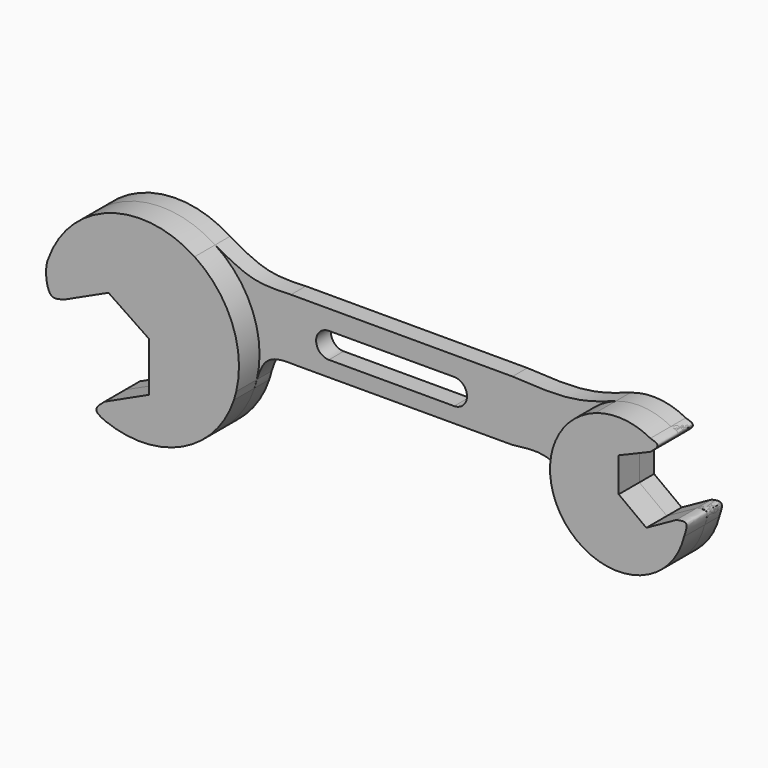
from build123d import *

# Parameters (mm, degrees)
F1_DEPTH = 9.00061
F2_DEPTH = 3.76264


with BuildPart() as f1:
    # F0 (on Front) → F1 (new body)
    with BuildSketch(Plane.XZ):
        with BuildLine():
            Line((-40.7024563674, 14.972725965), (-32.4174099998, 9.3729039422))
            Line((-32.4174099998, 9.3729039422), (-32.4174099998, -0.6270960578))
            Line((-32.4174099998, -0.6270960578), (-41.4970039682, -4.8176775649))
            add(Edge.make_bspline(
                [(-41.4970039682, -4.8176775649), (-42.3691302595, -5.5398068022), (-44.0306487903, -6.9155606595), (-42.3130432889, -7.7816184293), (-41.4970039682, -8.1930849701)],
                knots=[0, 0, 0, 0, 0.5248971198, 1, 1, 1, 1], degree=3))
            ThreePointArc((-41.4970039682, -8.1930849701), (-25.6855662565, -7.7395513117), (-15.1487593399, 4.0580312922))
            add(Edge.make_bspline(
                [(-15.1487593399, 4.0580312922), (-14.9911543333, 4.626323008), (-14.834256946, 5.1948774111), (-14.6659208594, 5.7464616678)],
                knots=[0, 0, 0, 0, 0.1221985557, 0.1221985557, 0.1221985557, 0.1221985557], degree=3))
            ThreePointArc((-14.6659208594, 5.7464616678), (-15.5322726984, 17.7831315263), (-23.1653100131, 27.1302555838))
            ThreePointArc((-23.1653100131, 27.1302555838), (-40.5089119394, 29.3473052437), (-52.9679948246, 17.0799872552))
            add(Edge.make_bspline(
                [(-49.7820503358, 10.7821444579), (-50.7407984354, 10.6016786924), (-53.3237116879, 9.3564932455), (-53.7318373751, 15.6123015952), (-52.9679948246, 17.0799872552)],
                knots=[0, 0, 0, 0, 0.3931938838, 1, 1, 1, 1], degree=3))
            Line((-49.7820503358, 10.7821444579), (-40.7024563674, 14.972725965))
        make_face()
    extrude(amount=F1_DEPTH)


with BuildPart() as f1b:
    # F0 (on Front) → F1, piece 2 (new body)
    with BuildSketch(Plane.XZ):
        with BuildLine():
            ThreePointArc((69.6827814383, 24.7720330954), (64.1525250072, 26.4072548887), (58.4358809411, 25.6472107261))
            ThreePointArc((58.4358809411, 25.6472107261), (50.357658925, 18.0653870977), (50.4275333835, 6.9867212017))
            ThreePointArc((50.4275333835, 6.9867212017), (64.3265241083, -1.180478153), (76.533049345, 9.3497559428))
            add(Edge.make_bspline(
                [(74.9696431023, 11.8522195277), (75.7974487836, 12.0232266624), (77.5687880184, 12.389147861), (76.8930125062, 10.4060736713), (76.533049345, 9.3497559428)],
                knots=[0, 0, 0, 0, 0.4673332273, 1, 1, 1, 1], degree=3))
            Line((74.9696431023, 11.8522195277), (68.8505408138, 8.4527214496))
            Line((68.8505408138, 8.4527214496), (63.2313340902, 12.6269897446))
            Line((63.2313340902, 12.6269897446), (63.2313340902, 19.6269897446))
            Line((63.2313340902, 19.6269897446), (69.6827814383, 22.343389405))
            add(Edge.make_bspline(
                [(69.6827814383, 22.343389405), (70.4471865954, 22.9642941163), (71.8718948949, 24.1215444136), (70.3760526911, 24.5660295637), (69.6827814383, 24.7720330954)],
                knots=[0, 0, 0, 0, 0.5365345014, 1, 1, 1, 1], degree=3))
        make_face()
    extrude(amount=F1_DEPTH)


with BuildPart() as f2:
    # F0 (on Front) → F2 (new body)
    with BuildSketch(Plane.XZ):
        with BuildLine():
            Line((-40.7024563674, 14.972725965), (-32.4174099998, 9.3729039422))
            Line((-32.4174099998, 9.3729039422), (-32.4174099998, -0.6270960578))
            Line((-32.4174099998, -0.6270960578), (-41.4970039682, -4.8176775649))
            add(Edge.make_bspline(
                [(-41.4970039682, -4.8176775649), (-42.3691302595, -5.5398068022), (-44.0306487903, -6.9155606595), (-42.3130432889, -7.7816184293), (-41.4970039682, -8.1930849701)],
                knots=[0, 0, 0, 0, 0.5248971198, 1, 1, 1, 1], degree=3))
            ThreePointArc((-41.4970039682, -8.1930849701), (-25.6855662565, -7.7395513117), (-15.1487593399, 4.0580312922))
            add(Edge.make_bspline(
                [(-15.1487593399, 4.0580312922), (-14.9911543333, 4.626323008), (-14.834256946, 5.1948774111), (-14.6659208594, 5.7464616678)],
                knots=[0, 0, 0, 0, 0.1221985557, 0.1221985557, 0.1221985557, 0.1221985557], degree=3))
            ThreePointArc((-14.6659208594, 5.7464616678), (-15.5322726984, 17.7831315263), (-23.1653100131, 27.1302555838))
            ThreePointArc((-23.1653100131, 27.1302555838), (-40.5089119394, 29.3473052437), (-52.9679948246, 17.0799872552))
            add(Edge.make_bspline(
                [(-49.7820503358, 10.7821444579), (-50.7407984354, 10.6016786924), (-53.3237116879, 9.3564932455), (-53.7318373751, 15.6123015952), (-52.9679948246, 17.0799872552)],
                knots=[0, 0, 0, 0, 0.3931938838, 1, 1, 1, 1], degree=3))
            Line((-49.7820503358, 10.7821444579), (-40.7024563674, 14.972725965))
        make_face()
        with BuildLine():
            add(Edge.make_bspline(
                [(-15.1487593399, 4.0580312922), (-14.9911543333, 4.626323008), (-14.834256946, 5.1948774111), (-14.6659208594, 5.7464616678)],
                knots=[0, 0, 0, 0, 0.1221985557, 0.1221985557, 0.1221985557, 0.1221985557], degree=3))
            ThreePointArc((-15.1487593399, 4.0580312922), (-14.8887994537, 4.8969444329), (-14.6659208594, 5.7464616678))
        make_face()
        with BuildLine():
            add(Edge.make_bspline(
                [(-23.1653100131, 27.1302555838), (-20.6106764356, 25.698985463), (-15.6338752189, 22.883416186), (-10.3081934592, 23.1184194817), (-7.7111385763, 23.22980389)],
                knots=[0, 0, 0, 0, 0.5120676854, 1, 1, 1, 1], degree=3))
            ThreePointArc((-23.1653100131, 27.1302555838), (-15.5322726984, 17.7831315263), (-14.6659208594, 5.7464616678))
            add(Edge.make_bspline(
                [(-14.6659208594, 5.7464616678), (-14.1329973594, 7.492683875), (-12.6636390156, 11.0690102763), (-8.6197958598, 10.9544845005), (-6.3616898842, 10.8919832855)],
                knots=[0.1221985557, 0.1221985557, 0.1221985557, 0.1221985557, 0.509058458, 1, 1, 1, 1], degree=3))
            Line((-6.3616898842, 10.8919832855), (37.399020046, 10.9544845005))
            add(Edge.make_bspline(
                [(37.399020046, 10.9544845005), (39.9231013855, 11.292431535), (44.9347389366, 11.9634352866), (48.6055195273, 8.637546134), (50.4275333835, 6.9867212017)],
                knots=[0, 0, 0, 0, 0.5036440313, 1, 1, 1, 1], degree=3))
            ThreePointArc((50.4275333835, 6.9867212017), (50.357658925, 18.0653870977), (58.4358809411, 25.6472107261))
            add(Edge.make_bspline(
                [(37.399020046, 23.22980389), (41.619609059, 22.9837986409), (49.518339794, 22.5167302219), (55.6012471555, 24.6586811727), (58.4358809411, 25.6472107261)],
                knots=[0, 0, 0, 0, 0.5344622564, 1, 1, 1, 1], degree=3))
            Line((37.399020046, 23.22980389), (-7.7111385763, 23.22980389))
        make_face()
        with BuildLine():
            ThreePointArc((0, 14.0572730452), (-2.5966381654, 16.6539112106), (0, 19.250549376))
            Line((0, 19.250549376), (25.5213363633, 19.2870002136))
            ThreePointArc((25.5213363633, 19.2870002136), (28.1361999475, 16.6721366294), (25.5213363633, 14.0572730452))
            Line((25.5213363633, 14.0572730452), (0, 14.0572730452))
        make_face(mode=Mode.SUBTRACT)
        with BuildLine():
            ThreePointArc((69.6827814383, 24.7720330954), (64.1525250072, 26.4072548887), (58.4358809411, 25.6472107261))
            ThreePointArc((58.4358809411, 25.6472107261), (50.357658925, 18.0653870977), (50.4275333835, 6.9867212017))
            ThreePointArc((50.4275333835, 6.9867212017), (64.3265241083, -1.180478153), (76.533049345, 9.3497559428))
            add(Edge.make_bspline(
                [(74.9696431023, 11.8522195277), (75.7974487836, 12.0232266624), (77.5687880184, 12.389147861), (76.8930125062, 10.4060736713), (76.533049345, 9.3497559428)],
                knots=[0, 0, 0, 0, 0.4673332273, 1, 1, 1, 1], degree=3))
            Line((74.9696431023, 11.8522195277), (68.8505408138, 8.4527214496))
            Line((68.8505408138, 8.4527214496), (63.2313340902, 12.6269897446))
            Line((63.2313340902, 12.6269897446), (63.2313340902, 19.6269897446))
            Line((63.2313340902, 19.6269897446), (69.6827814383, 22.343389405))
            add(Edge.make_bspline(
                [(69.6827814383, 22.343389405), (70.4471865954, 22.9642941163), (71.8718948949, 24.1215444136), (70.3760526911, 24.5660295637), (69.6827814383, 24.7720330954)],
                knots=[0, 0, 0, 0, 0.5365345014, 1, 1, 1, 1], degree=3))
        make_face()
    extrude(amount=F2_DEPTH)


solid = Compound([f1.part, f1b.part, f2.part])
